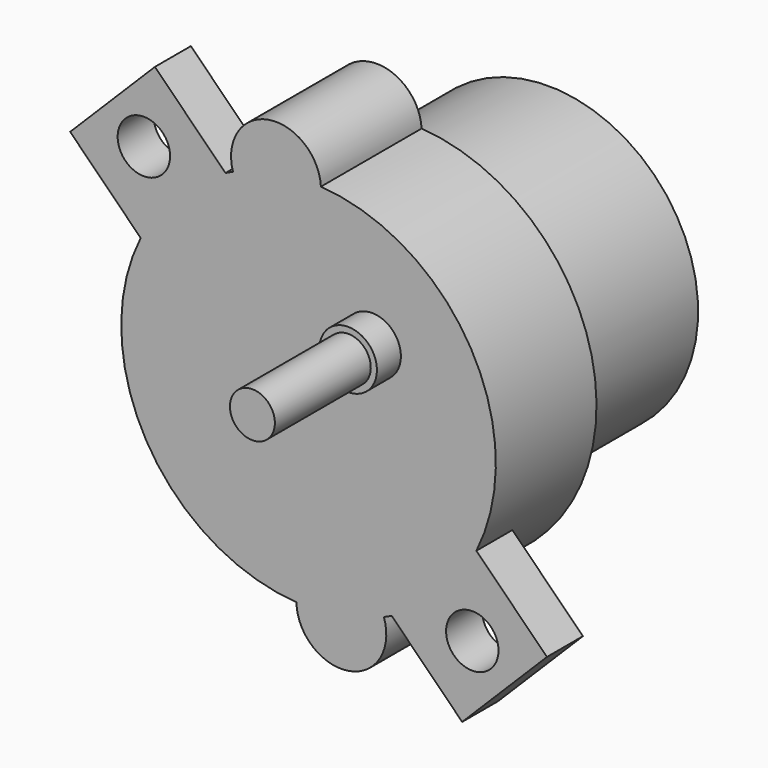
from build123d import *

# Parameters (mm, degrees)
SKETCH028_W              = 37
SKETCH028_H              = 8
SKETCH028_R              = 1.75
PAD016_DEPTH             = 3
PAD017_DEPTH             = 8.4
SKETCH030_R              = 10
PAD018_DEPTH             = 20
SKETCH031_R              = 1.920563
PAD019_DEPTH             = 2
SKETCH032_R              = 1.5
PAD020_DEPTH             = 10
BODY008_ROLL_ANGLE       = -90
BODY008_PITCH_ANGLE      = -30
BODY008_PLACEMENT_ANGLE  = 180
CLONE001_PLACEMENT_ANGLE = 210
BODY009_PLACEMENT_ANGLE  = 45


with BuildPart() as part:
    # Sketch028 → Pad016 (new body)
    with BuildSketch(Plane.XY):
        Rectangle(SKETCH028_W, SKETCH028_H)
        with Locations((15.456405, 0)):
            Circle(SKETCH028_R, mode=Mode.SUBTRACT)
        with Locations((-15.543595, 0)):
            Circle(SKETCH028_R, mode=Mode.SUBTRACT)
    extrude(amount=-PAD016_DEPTH)

    # Sketch029 → Pad017 (join)
    with BuildSketch(Plane.XY):
        with BuildLine():
            ThreePointArc((-11.652801, 4.52352), (-7.163489, -10.243751), (8.24762, -9.392911))
            ThreePointArc((8.24762, -9.392911), (12.786665, -8.95332), (11.647301, -4.537663))
            ThreePointArc((11.647301, -4.537663), (7.175919, 10.235047), (-8.236211, 9.402916))
            ThreePointArc((-8.236211, 9.402916), (-12.696857, 8.890435), (-11.652801, 4.52352))
        make_face()
    extrude(amount=-PAD017_DEPTH)

    # Sketch030 → Pad018 (join)
    with BuildSketch(Plane.XY):
        Circle(SKETCH030_R)
    extrude(amount=-PAD018_DEPTH)

    # Sketch031 → Pad019 (join)
    with BuildSketch(Plane.XY):
        with Locations((0, 6)):
            Circle(SKETCH031_R)
    extrude(amount=PAD019_DEPTH)

    # Sketch032 → Pad020 (join)
    with BuildSketch(Plane.XY):
        with Locations((0, 6.01563)):
            Circle(SKETCH032_R)
    extrude(amount=PAD020_DEPTH)


with BuildPart() as part_1:
    # Body008 roll: moved
    add(part.part.rotate(Axis((0, 0, 0), (1, 0, 0)), BODY008_ROLL_ANGLE))


with BuildPart() as part_2:
    # Body008 pitch: moved
    add(part_1.part.rotate(Axis((0, 0, 0), (0, 1, 0)), BODY008_PITCH_ANGLE))


with BuildPart() as part_3:
    # Body008 placement: moved
    add(part_2.part.moved(Location((-56.598076, 17, -9.800515))).rotate(Axis((-56.598076, 17, -9.800515), (0, 0, 1)), BODY008_PLACEMENT_ANGLE))


with BuildPart() as part_4:
    # Clone001 placement: moved
    add(part_3.part.moved(Location((-103.715114, 0, -57.786533))).rotate(Axis((-103.715114, 0, -57.786533), (0, -1, 0)), CLONE001_PLACEMENT_ANGLE))


with BuildPart() as part_5:
    # Body009 placement: moved
    add(part_4.part.moved(Location((0.05412, 8, 13.784986))).rotate(Axis((0.05412, 8, 13.784986), (0, 1, 0)), BODY009_PLACEMENT_ANGLE))


solid = part_5.part
